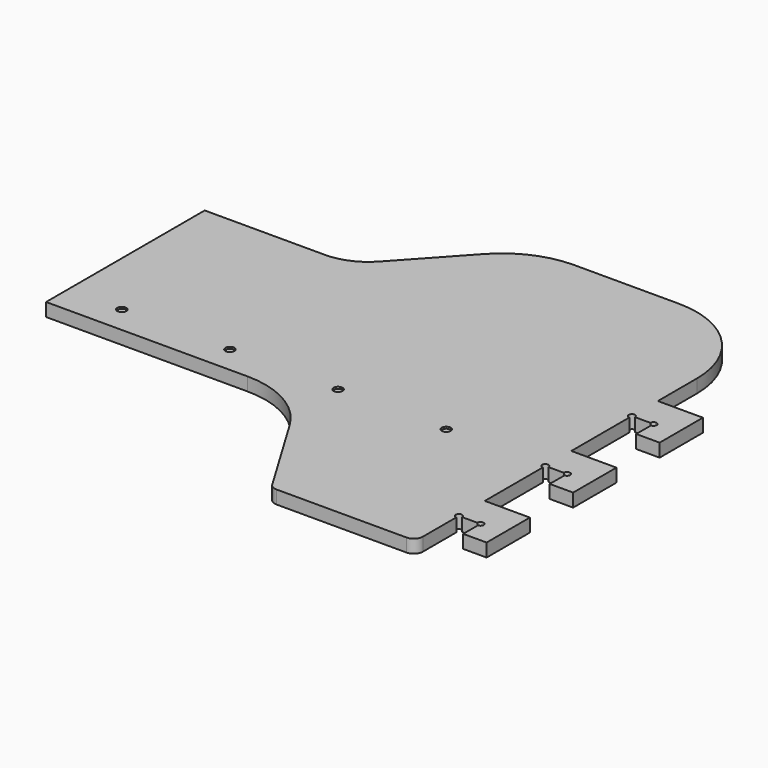
from build123d import *

# Parameters (mm, degrees)
SKETCH_W        = 1346.2
SKETCH_H        = 622.3
PAD_DEPTH       = 18.669
POCKET_DEPTH    = 18.67
POCKET001_DEPTH = 18.67
SKETCH003_W     = 63.5
SKETCH003_H     = 76.2
PAD001_DEPTH    = 18.669
FILLET_R        = 12.7
FILLET001_R     = 127
SKETCH004_W     = 30.48
SKETCH004_H     = 30.48
POCKET002_DEPTH = 18.67
SKETCH005_R     = 4.490128
POCKET003_DEPTH = 18.67
FILLET002_R     = 127
FILLET003_R     = 127
FILLET004_R     = 76.2
SKETCH006_W     = 736.6
SKETCH006_H     = 762
POCKET004_DEPTH = 18.67
SKETCH007_R     = 6.35
POCKET005_DEPTH = 2.54


with BuildPart() as part:
    # Sketch → Pad (new body)
    with BuildSketch(Plane.XY):
        Rectangle(SKETCH_W, SKETCH_H)
    extrude(amount=PAD_DEPTH)

    # Sketch001 (on Face6 of Pad) → Pocket (cut, through all)
    with BuildSketch(Plane.XY.offset(18.669)):
        Polygon((-355.6, -120.65), (355.6, -120.65), (469.9, -311.15), (-469.9, -311.15), align=None)
    extrude(amount=-POCKET_DEPTH, mode=Mode.SUBTRACT)

    # Sketch002 (on Face5 of Pocket) → Pocket001 (cut, through all)
    with BuildSketch(Plane.XY.offset(18.669)):
        Polygon((-342.9, 311.15), (342.9, 311.15), (203.2, 158.75), (-203.2, 158.75), align=None)
    extrude(amount=-POCKET001_DEPTH, mode=Mode.SUBTRACT)

    # Sketch003 (on Face4 of Pocket001) → Pad001 (join)
    with BuildSketch(Plane.XY.offset(18.669)):
        with Locations((704.85, 77.47)):
            Rectangle(SKETCH003_W, SKETCH003_H)
        with Locations((704.85, -74.93)):
            Rectangle(SKETCH003_W, SKETCH003_H)
        with Locations((704.85, -227.33)):
            Rectangle(SKETCH003_W, SKETCH003_H)
        with Locations((-704.85, -227.33)):
            Rectangle(SKETCH003_W, SKETCH003_H)
        with Locations((-704.85, 77.47)):
            Rectangle(SKETCH003_W, SKETCH003_H)
        with Locations((-704.85, -74.93)):
            Rectangle(SKETCH003_W, SKETCH003_H)
    extrude(amount=-PAD001_DEPTH)

    # Fillet
    fillet_edges = [part.edges().sort_by_distance(p)[0] for p in [
        (673.1, -311.15, 9.3345),
        (-673.1, -311.15, 9.3345),
        (-469.9, -311.15, 9.3345),
        (469.9, -311.15, 9.3345),
    ]]
    fillet(fillet_edges, radius=FILLET_R)

    # Fillet001
    fillet001_edges = [part.edges().sort_by_distance(p)[0] for p in [
        (-673.1, 311.15, 9.3345),
        (673.1, 311.15, 9.3345),
    ]]
    fillet(fillet001_edges, radius=FILLET001_R)

    # Sketch004 (on Face52 of Fillet001) → Pocket002 (cut, through all)
    with BuildSketch(Plane.XY.offset(18.669)):
        with Locations((-688.34, 54.61)):
            Rectangle(SKETCH004_W, SKETCH004_H)
        with Locations((-688.34, -97.79)):
            Rectangle(SKETCH004_W, SKETCH004_H)
        with Locations((-688.34, -250.19)):
            Rectangle(SKETCH004_W, SKETCH004_H)
        with Locations((688.34, -250.19)):
            Rectangle(SKETCH004_W, SKETCH004_H)
        with Locations((688.34, -97.79)):
            Rectangle(SKETCH004_W, SKETCH004_H)
        with Locations((688.34, 54.61)):
            Rectangle(SKETCH004_W, SKETCH004_H)
    extrude(amount=-POCKET002_DEPTH, mode=Mode.SUBTRACT)

    # Sketch005 (on Face69 of Pocket002) → Pocket003 (cut, through all)
    with BuildSketch(Plane.XY.offset(18.669)):
        with Locations((703.58, -234.95)):
            Circle(SKETCH005_R)
        with Locations((673.1, -234.95)):
            Circle(SKETCH005_R)
        with Locations((703.58, -82.55)):
            Circle(SKETCH005_R)
        with Locations((673.1, -82.55)):
            Circle(SKETCH005_R)
        with Locations((703.58, 69.85)):
            Circle(SKETCH005_R)
        with Locations((673.1, 69.85)):
            Circle(SKETCH005_R)
        with Locations((-673.1, 69.85)):
            Circle(SKETCH005_R)
        with Locations((-703.58, 69.85)):
            Circle(SKETCH005_R)
        with Locations((-673.1, -82.55)):
            Circle(SKETCH005_R)
        with Locations((-703.58, -82.55)):
            Circle(SKETCH005_R)
        with Locations((-703.58, -234.95)):
            Circle(SKETCH005_R)
        with Locations((-673.1, -234.95)):
            Circle(SKETCH005_R)
    extrude(amount=-POCKET003_DEPTH, mode=Mode.SUBTRACT)

    # Fillet002
    fillet002_edges = [part.edges().sort_by_distance(p)[0] for p in [
        (-355.6, -120.65, 9.3345),
        (355.6, -120.65, 9.3345),
    ]]
    fillet(fillet002_edges, radius=FILLET002_R)

    # Fillet003
    fillet003_edges = [part.edges().sort_by_distance(p)[0] for p in [
        (-342.9, 311.15, 9.3345),
        (342.9, 311.15, 9.3345),
    ]]
    fillet(fillet003_edges, radius=FILLET003_R)

    # Fillet004
    fillet004_edges = [part.edges().sort_by_distance(p)[0] for p in [
        (-203.2, 158.75, 9.3345),
        (203.2, 158.75, 9.3345),
    ]]
    fillet(fillet004_edges, radius=FILLET004_R)

    # Sketch006 (on Face53 of Fillet004) → Pocket004 (cut, through all)
    with BuildSketch(Plane.XY.offset(18.669)):
        with Locations((-368.3, 0)):
            Rectangle(SKETCH006_W, SKETCH006_H)
    extrude(amount=-POCKET004_DEPTH, mode=Mode.SUBTRACT)

    # Sketch007 (on Face28 of Pocket004) → Pocket005 (cut)
    with BuildSketch(Plane.XY.offset(18.669)):
        with Locations((76.2, -82.55)):
            Circle(SKETCH007_R)
        with Locations((228.6, -82.55)):
            Circle(SKETCH007_R)
        with Locations((381, -82.55)):
            Circle(SKETCH007_R)
        with Locations((533.4, -82.55)):
            Circle(SKETCH007_R)
    extrude(amount=-POCKET005_DEPTH, mode=Mode.SUBTRACT)


with BuildPart() as part_1:
    # Clone placement: moved
    add(part.part.moved(Location((0, 0, -18.669))))


solid = part_1.part
